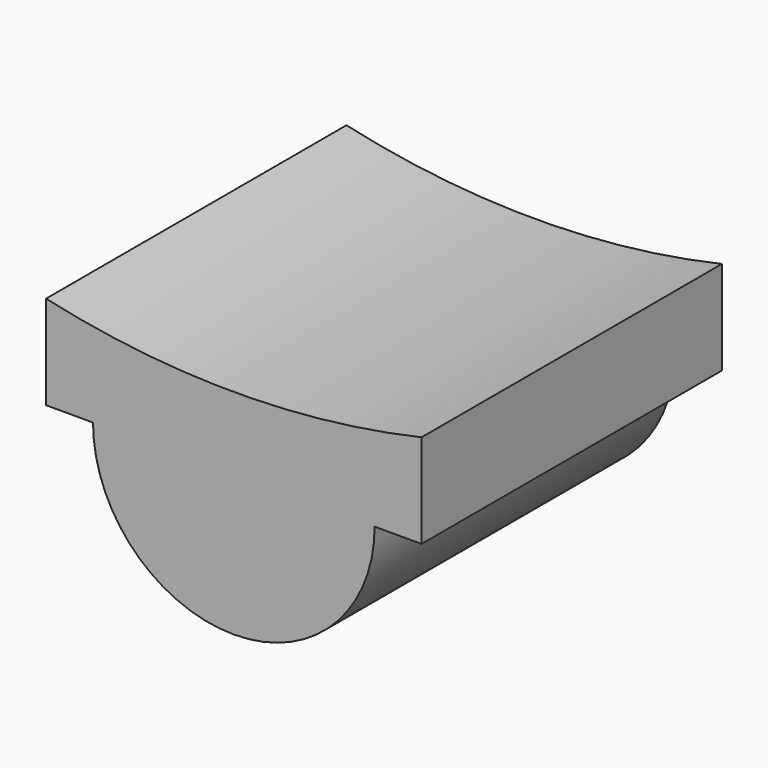
from build123d import *

# Parameters (mm, degrees)
F0_R     = 1.5
F1_DEPTH = 4
F3_DEPTH = 1
F4_W     = 10.043588
F4_H     = 9.757602
F5_DEPTH = 25
F7_DEPTH = 25


with BuildPart() as f1:
    # F0 (on Front) → F1 (new body)
    with BuildSketch(Plane.XZ):
        Circle(F0_R)
    extrude(amount=F1_DEPTH)

    # F2 (on Top) → F3 (join)
    with BuildSketch(Plane.XY):
        Polygon((2, 0), (0, 0), (0, -3), (0, -4), (2, -4), align=None)
        Polygon((0, -3), (0, 0), (-2, 0), (-2, -4), (0, -4), align=None)
    extrude(amount=F3_DEPTH)

    # F4 (on face) → F5 (cut)
    with BuildSketch(Plane.XY.offset(1)):
        with Locations((0.776296, -1.253996)):
            Rectangle(F4_W, F4_H)
    extrude(amount=F5_DEPTH, mode=Mode.SUBTRACT)

    # F6 (on face) → F7 (cut)
    with BuildSketch(Plane(origin=(0, 0, 0), x_dir=(-1, 0, 0), z_dir=(0, 1, 0))):
        with BuildLine():
            Line((-2.083411, 1.922662), (-2, 1))
            ThreePointArc((-2, 1), (0, 0.774964), (2, 1))
            Line((2, 1), (2, 1.922662))
            Line((2, 1.922662), (-2.083411, 1.922662))
        make_face()
    extrude(amount=-F7_DEPTH, mode=Mode.SUBTRACT)


solid = f1.part
